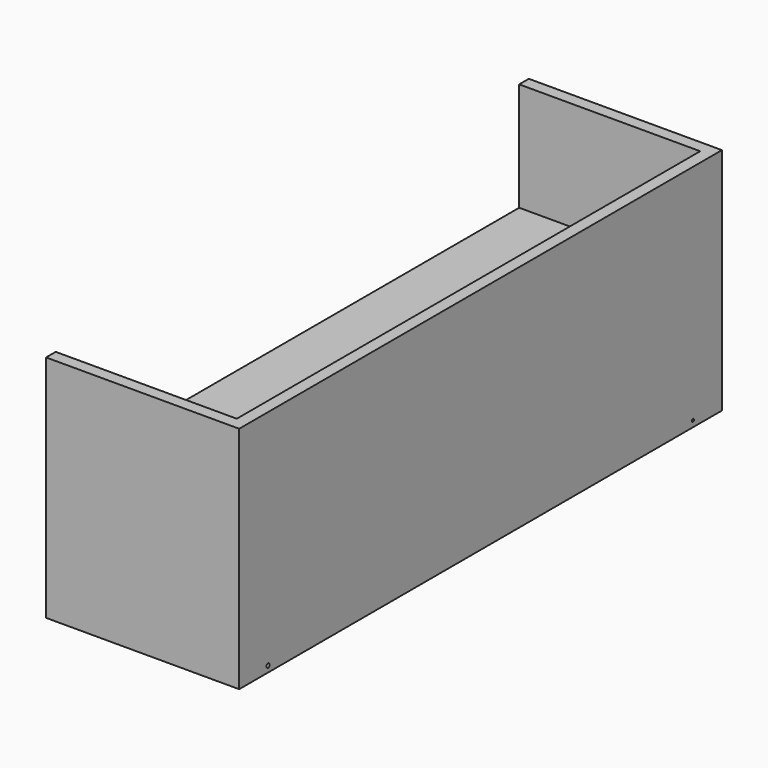
from build123d import *

# Parameters (mm, degrees)
F1_DEPTH  = 914.4
F2_W      = 304.8
F2_H      = 361.95
F3_DEPTH  = 19.05
F4_W      = 304.8
F4_H      = 361.95
F5_DEPTH  = 19.05
F6_W      = 285.75
F6_H      = 914.4
F7_DEPTH  = 25.4
F8_W      = 25.4
F8_H      = 76.2
F9_DEPTH  = 25.4
F10_R     = 3.175
F10_R_2   = 2.20718
F11_DEPTH = 304.801
F12_R     = 25.4
F13_DEPTH = 25.4
F14_R     = 25.4
F15_DEPTH = 25.4


with BuildPart() as f1:
    # F0 (on Front) → F1 (new body)
    with BuildSketch(Plane.XZ):
        Polygon((0, 19.05), (0, 0), (304.8, 0), (304.8, 361.95), (0, 361.95), (0, 342.9), (285.75, 342.9), (285.75, 190.5), (0, 190.5), (0, 171.45), (285.75, 171.45), (285.75, 19.05), align=None)
    extrude(amount=F1_DEPTH)

    # F2 (on face) → F3 (join)
    with BuildSketch(Plane.XZ.offset(914.4)):
        with Locations((152.4, 180.975)):
            Rectangle(F2_W, F2_H)
    extrude(amount=F3_DEPTH)

    # F4 (on face) → F5 (join)
    with BuildSketch(Plane(origin=(0, 0, 0), x_dir=(-1, 0, 0), z_dir=(0, 1, 0))):
        with Locations((-152.4, 180.975)):
            Rectangle(F4_W, F4_H)
    extrude(amount=F5_DEPTH)

    # F6 (on face) → F7 (cut)
    with BuildSketch(Plane.XY.offset(361.95)):
        with Locations((142.875, -457.2)):
            Rectangle(F6_W, F6_H)
    extrude(amount=-F7_DEPTH, mode=Mode.SUBTRACT)

    # F8 (on face) → F9 (cut)
    with BuildSketch(Plane(origin=(0, 0, 0), x_dir=(1, 0, 0), z_dir=(0, 0, -1))):
        with Locations((38.1, 876.3)):
            Rectangle(F8_W, F8_H)
        with Locations((273.05, 876.3)):
            Rectangle(F8_W, F8_H)
        with Locations((273.05, 38.1)):
            Rectangle(F8_W, F8_H)
        with Locations((38.1, 38.1)):
            Rectangle(F8_W, F8_H)
    extrude(amount=-F9_DEPTH, mode=Mode.SUBTRACT)

    # F10 (on face) → F11 (cut, through all)
    with BuildSketch(Plane(origin=(0, 0, 0), x_dir=(0, -1, 0), z_dir=(-1, 0, 0))):
        with Locations((876.3, 9.652)):
            Circle(F10_R)
        with Locations((38.1, 9.652)):
            Circle(F10_R_2)
    extrude(amount=-F11_DEPTH, mode=Mode.SUBTRACT)


with BuildPart() as f13:
    # F12 (on face) → F13 (new body)
    with BuildSketch(Plane(origin=(50.8, 0, 0), x_dir=(0, -1, 0), z_dir=(-1, 0, 0))):
        with Locations((876.3, 9.652)):
            Circle(F12_R)
        with Locations((38.1, 9.652)):
            Circle(F12_R)
    extrude(amount=F13_DEPTH)


with BuildPart() as f15:
    # F14 (on face) → F15 (new body)
    with BuildSketch(Plane(origin=(285.75, 0, 0), x_dir=(0, -1, 0), z_dir=(-1, 0, 0))):
        with Locations((876.3, 9.652)):
            Circle(F14_R)
        with Locations((38.1, 9.652)):
            Circle(F14_R)
    extrude(amount=F15_DEPTH)


solid = Compound([f1.part, f13.part, f15.part])
